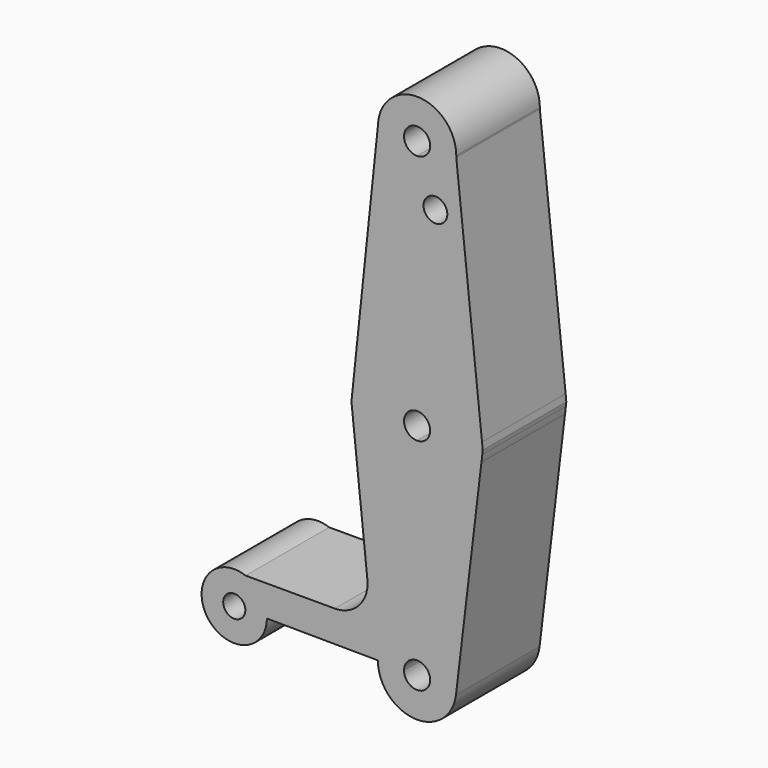
from build123d import *

# Parameters (mm, degrees)
F0_R     = 2.8919986146
F1_DEPTH = 25.4


with BuildPart() as f1:
    # F0 (on Front) → F1 (new body)
    with BuildSketch(Plane.XZ):
        with BuildLine():
            ThreePointArc((-15.7877418604, -1.6621768702), (-15.875, -1.428e-07), (-15.7877418904, 1.6621765861))
            Line((-15.7877418904, 1.6621765861), (-15.9627403992, 0))
            Line((-15.9627403992, 0), (-15.7877418604, -1.6621768702))
        make_face()
        with BuildLine():
            ThreePointArc((15.6388934197, -2.7277532162), (15.7630306925, -1.8821499378), (15.8414795915, -1.0310913397))
            Line((15.8414795915, -1.0310913397), (15.6388934197, -2.7277532162))
        make_face()
        with BuildLine():
            ThreePointArc((15.7859080775, 1.6795032503), (15.8527113727, 0.8409323008), (15.875, 0))
            ThreePointArc((15.875, 0), (15.8666176849, -0.515818032), (15.8414795915, -1.0310913397))
            Line((15.8414795915, -1.0310913397), (15.9645947804, 0))
            Line((15.9645947804, 0), (15.7859080775, 1.6795032503))
        make_face()
        with BuildLine():
            ThreePointArc((0, -62.890048396), (6.3233352792, -60.4883240433), (9.4578184155, -54.4943383586))
            ThreePointArc((9.4578184155, -54.4943383586), (9.5081897701, -53.9306916548), (9.525, -53.365048396))
            ThreePointArc((9.525, -53.365048396), (6.7351920908, -46.6298563052), (0, -43.840048396))
            Line((0, -43.840048396), (0, -50.190048396))
            ThreePointArc((0, -50.190048396), (2.2450640303, -51.1199843657), (3.175, -53.365048396))
            ThreePointArc((3.175, -53.365048396), (-0.0112439351, -56.5400284863), (-3.1749203615, -53.3425606669))
            Line((-3.1749203615, -53.3425606669), (-9.5247610846, -53.2975852086))
            ThreePointArc((-9.5247610846, -53.2975852086), (-7.0387492113, -59.7823402345), (-0.8107396043, -62.8554818052))
            Line((-0.8107396043, -62.8554818052), (0, -62.890048396))
        make_face()
        with BuildLine():
            ThreePointArc((-41.6894964213, -45.607795813), (-50.980516261, -57.5603975821), (-36.5115841576, -53.1064395112))
            ThreePointArc((-36.5115841576, -53.1064395112), (-36.5114348356, -53.078330026), (-36.5113850614, -53.0502201884))
            ThreePointArc((-36.5113850614, -53.0502201884), (-37.9332671482, -48.5169399787), (-41.6894964213, -45.607795813))
        make_face()
        with BuildLine():
            ThreePointArc((-41.7578870296, -53.0502201884), (-41.7579039042, -53.0597500804), (-41.7579545278, -53.0692798529))
            ThreePointArc((-41.7579545278, -53.0692798529), (-47.1398662186, -53.0406902964), (-41.7578870296, -53.0502201884))
        make_face(mode=Mode.SUBTRACT)
        with BuildLine():
            ThreePointArc((-15.7877418904, 1.6621765861), (-10.6214069618, 11.7983617147), (0, 15.875))
            Line((0, 15.875), (0, 51.409951604))
            ThreePointArc((0, 51.409951604), (-6.8199440232, 54.2855915957), (-9.5219449967, 61.1761744869))
            Line((-9.5219449967, 61.1761744869), (-15.7877418904, 1.6621765861))
        make_face()
        with BuildLine():
            Line((9.4578184155, -54.4943383586), (15.6388934197, -2.7277532162))
            ThreePointArc((15.6388934197, -2.7277532162), (10.215491733, -12.1515165166), (0, -15.875))
            Line((0, -15.875), (0, -43.840048396))
            ThreePointArc((0, -43.840048396), (6.7351920908, -46.6298563052), (9.525, -53.365048396))
            ThreePointArc((9.525, -53.365048396), (9.5081897701, -53.9306916548), (9.4578184155, -54.4943383586))
        make_face()
        with BuildLine():
            ThreePointArc((0, 51.409951604), (6.6108879801, 54.077708345), (9.5186282495, 60.5866108977))
            ThreePointArc((9.5186282495, 60.5866108977), (9.5234069292, 60.7607521157), (9.525, 60.934951604))
            ThreePointArc((9.525, 60.934951604), (0.1206211137, 70.4591878226), (-9.5219449967, 61.1761744869))
            ThreePointArc((-9.5219449967, 61.1761744869), (-6.8199440232, 54.2855915957), (0, 51.409951604))
        make_face()
        with BuildLine():
            ThreePointArc((3.175, 60.934951604), (2.2450640303, 58.6898875738), (0, 57.759951604))
            ThreePointArc((0, 57.759951604), (-2.2450640303, 63.1800156343), (3.175, 60.934951604))
        make_face(mode=Mode.SUBTRACT)
        with BuildLine():
            Line((0, -50.190048396), (0, -43.840048396))
            ThreePointArc((0, -43.840048396), (-6.7112978678, -46.6060465518), (-9.5247610846, -53.2975852086))
            Line((-9.5247610846, -53.2975852086), (-3.1749203615, -53.3425606669))
            ThreePointArc((-3.1749203615, -53.3425606669), (-2.2370992893, -51.1120477812), (0, -50.190048396))
        make_face()
        with BuildLine():
            ThreePointArc((0, 15.875), (10.6149307794, 11.8041886443), (15.7859080775, 1.6795032503))
            Line((15.7859080775, 1.6795032503), (9.5186282495, 60.5866108977))
            ThreePointArc((9.5186282495, 60.5866108977), (6.6108879801, 54.077708345), (0, 51.409951604))
            Line((0, 51.409951604), (0, 15.875))
        make_face()
        with Locations((4.4577782974, 47.6701632142)):
            Circle(F0_R, mode=Mode.SUBTRACT)
        with BuildLine():
            Line((0, -43.840048396), (0, -15.875))
            ThreePointArc((0, -15.875), (-10.6214068556, -11.7983618103), (-15.7877418604, -1.6621768702))
            Line((-15.7877418604, -1.6621768702), (-12.0856847125, -36.8251776935))
            ThreePointArc((-12.0856847125, -36.8251776935), (-14.0835662669, -42.9767963876), (-19.9921858423, -45.607795813))
            Line((-19.9921858423, -45.607795813), (-41.6894964213, -45.607795813))
            ThreePointArc((-41.6894964213, -45.607795813), (-37.9332671482, -48.5169399787), (-36.5113850614, -53.0502201884))
            ThreePointArc((-36.5113850614, -53.0502201884), (-36.5114348356, -53.078330026), (-36.5115841576, -53.1064395112))
            Line((-36.5115841576, -53.1064395112), (-9.5247610846, -53.2975852086))
            ThreePointArc((-9.5247610846, -53.2975852086), (-6.7112978678, -46.6060465518), (0, -43.840048396))
        make_face()
        with BuildLine():
            Line((0, 3.175), (0, 15.875))
            ThreePointArc((0, 15.875), (-10.6214069618, 11.7983617147), (-15.7877418904, 1.6621765861))
            ThreePointArc((-15.7877418904, 1.6621765861), (-15.875, -1.428e-07), (-15.7877418604, -1.6621768702))
            ThreePointArc((-15.7877418604, -1.6621768702), (-10.6214068556, -11.7983618103), (0, -15.875))
            Line((0, -15.875), (0, -3.175))
            ThreePointArc((0, -3.175), (-3.175, 0), (0, 3.175))
        make_face()
        with BuildLine():
            ThreePointArc((15.8414795915, -1.0310913397), (15.8666176849, -0.515818032), (15.875, 0))
            ThreePointArc((15.875, 0), (15.8527113727, 0.8409323008), (15.7859080775, 1.6795032503))
            ThreePointArc((15.7859080775, 1.6795032503), (10.6149307794, 11.8041886443), (0, 15.875))
            Line((0, 15.875), (0, 3.175))
            ThreePointArc((0, 3.175), (2.2450640303, 2.2450640303), (3.175, 0))
            ThreePointArc((3.175, 0), (2.2450640303, -2.2450640303), (0, -3.175))
            Line((0, -3.175), (0, -15.875))
            ThreePointArc((0, -15.875), (10.215491733, -12.1515165166), (15.6388934197, -2.7277532162))
            Line((15.6388934197, -2.7277532162), (15.8414795915, -1.0310913397))
        make_face()
        with BuildLine():
            ThreePointArc((-0.8107396043, -62.8554818052), (-0.405738079, -62.8814028246), (0, -62.890048396))
            Line((0, -62.890048396), (-0.8107396043, -62.8554818052))
        make_face()
    extrude(amount=F1_DEPTH)


solid = f1.part
